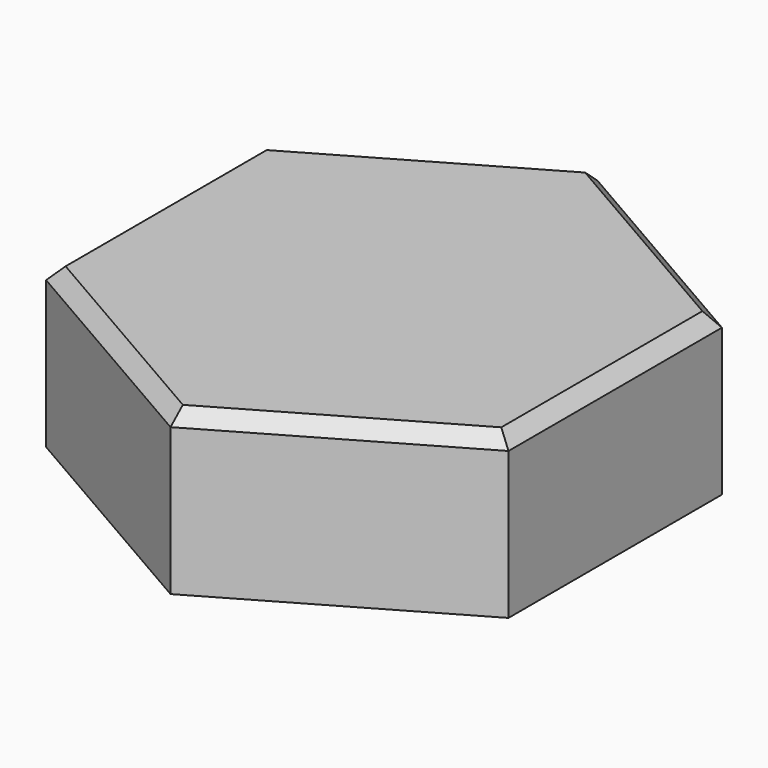
from build123d import *

# Parameters (mm, degrees)
F1_DEPTH = 7.62
F2_SIZE  = 0.635


with BuildPart() as f1:
    # F0 (on Top) → F1 (new body)
    with BuildSketch(Plane.XY):
        Polygon((10.976179, 6.332825), (-0.013023, 12.677444), (-11.005923, 6.339235), (-10.998523, -6.35), (-0.009321, -12.694619), (10.983579, -6.35641), align=None)
    extrude(amount=F1_DEPTH)

    # F2
    f2_edges = [f1.edges().sort_by_distance(p)[0] for p in [
        (10.979879, -0.011792, 7.62),
        (5.481578, 9.505135, 7.62),
        (-5.509473, 9.50834, 7.62),
        (-11.002223, -0.005382, 7.62),
        (-5.503922, -9.522309, 7.62),
        (5.487129, -9.525514, 7.62),
    ]]
    chamfer(f2_edges, length=F2_SIZE)


solid = f1.part
